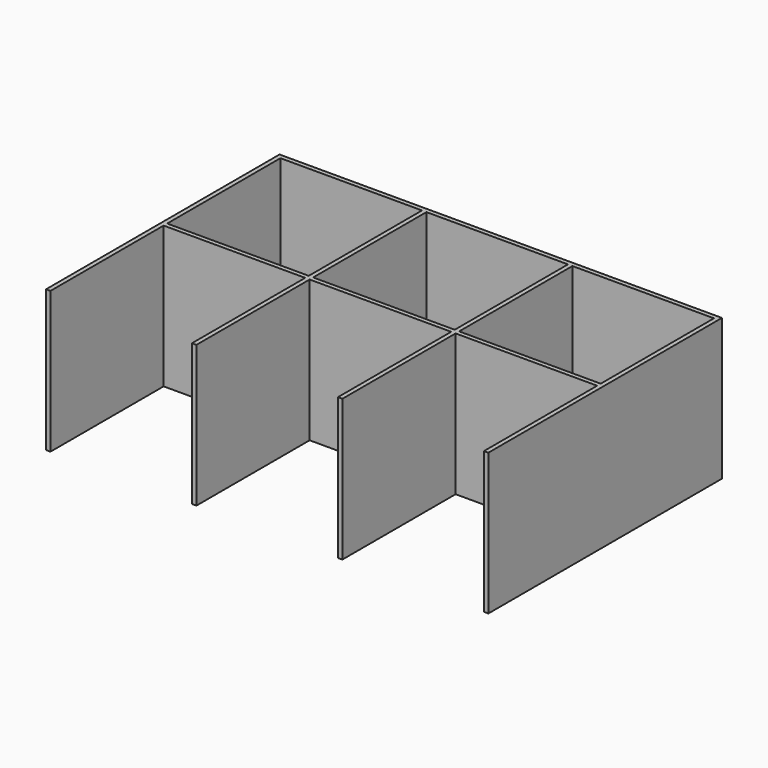
from build123d import *

# Parameters (mm, degrees)
F1_W     = 96
F1_H     = 96
F2_DEPTH = 96


with BuildPart() as f2:
    # F1 (on Top) → F2 (new body)
    with BuildSketch(Plane.XY):
        Polygon((-182.807677562, -69.8661083913), (-182.807677562, 26.1338916087), (-86.807677562, 26.1338916087), (-86.807677562, -69.8661083913), (-83.807677562, -69.8661083913), (-83.807677562, 26.1338916087), (12.192322438, 26.1338916087), (12.192322438, -69.8661083913), (15.192322438, -69.8661083913), (15.192322438, 26.1338916087), (111.192322438, 26.1338916087), (111.192322438, -69.8661083913), (114.192322438, -69.8661083913), (114.192322438, 128.1338916087), (111.192322438, 128.1338916087), (15.192322438, 128.1338916087), (12.192322438, 128.1338916087), (-83.807677562, 128.1338916087), (-86.807677562, 128.1338916087), (-182.807677562, 128.1338916087), (-185.807677562, 128.1338916087), (-185.807677562, -69.7717368603), align=None)
        with Locations((-134.807677562, 77.1338916087)):
            Rectangle(F1_W, F1_H, mode=Mode.SUBTRACT)
        with Locations((-35.807677562, 77.1338916087)):
            Rectangle(F1_W, F1_H, mode=Mode.SUBTRACT)
        with Locations((63.192322438, 77.1338916087)):
            Rectangle(F1_W, F1_H, mode=Mode.SUBTRACT)
    extrude(amount=F2_DEPTH)


solid = f2.part
